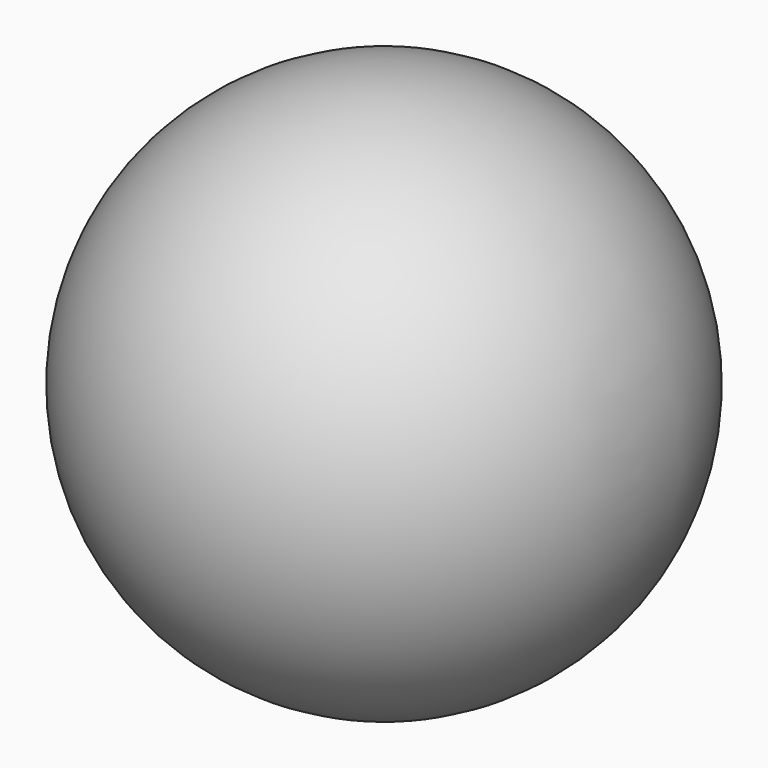
from build123d import *


with BuildPart() as f1:
    # F0 (on Front) → F1 (revolve)
    with BuildSketch(Plane.XZ):
        with BuildLine():
            Line((0, 500), (0, -500))
            ThreePointArc((0, -500), (500, 0), (0, 500))
        make_face()
    revolve(axis=Axis((0, 0, 0), (0, 0, -1)))

    # F2 (on Front) → F3 (revolve, cut)
    with BuildSketch(Plane.XZ):
        with BuildLine():
            Line((0, 450), (0, -450))
            ThreePointArc((0, -450), (450, 0), (0, 450))
        make_face()
    revolve(axis=Axis((0, 0, 0), (0, 0, -1)), mode=Mode.SUBTRACT)


solid = f1.part
